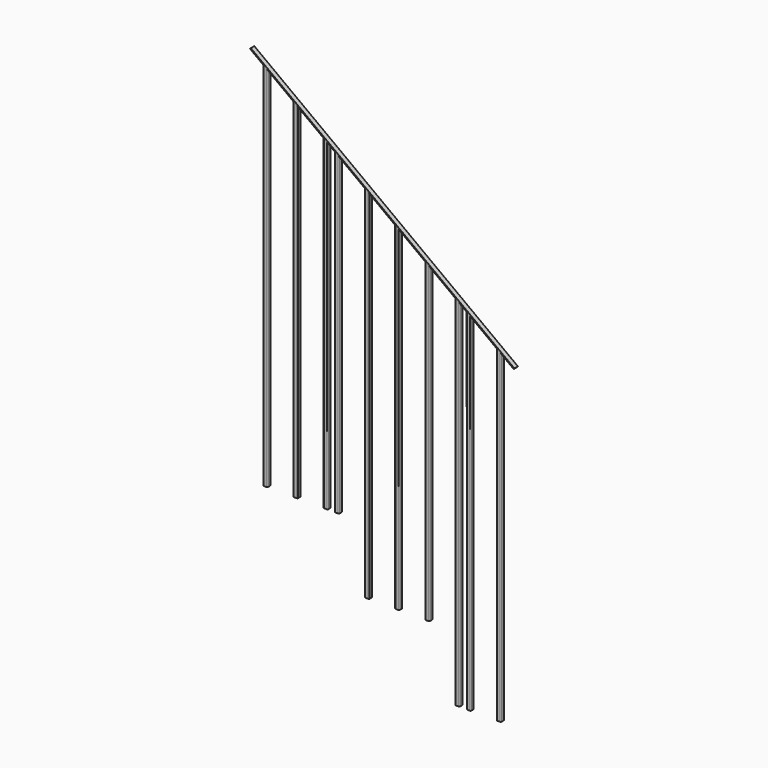
from build123d import *

# Parameters (mm, degrees)
F1_DEPTH = 1676.4
F3_DEPTH = 12.7
F5_DEPTH = 6.35


with BuildPart() as f1:
    # F0 (on Top) → F1 (new body)
    with BuildSketch(Plane.XY):
        with BuildLine():
            ThreePointArc((25.4, -3.81), (26.143949, -5.606051), (27.94, -6.35))
            Line((27.94, -6.35), (35.56, -6.35))
            ThreePointArc((35.56, -6.35), (37.356051, -5.606051), (38.1, -3.81))
            Line((38.1, -3.81), (38.1, 3.81))
            ThreePointArc((38.1, 3.81), (37.356051, 5.606051), (35.56, 6.35))
            Line((35.56, 6.35), (27.94, 6.35))
            ThreePointArc((27.94, 6.35), (26.143949, 5.606051), (25.4, 3.81))
            Line((25.4, 3.81), (25.4, -3.81))
        make_face()
        with BuildLine():
            ThreePointArc((26.9875, 3.81), (27.266481, 4.483519), (27.94, 4.7625))
            Line((27.94, 4.7625), (35.56, 4.7625))
            ThreePointArc((35.56, 4.7625), (36.233519, 4.483519), (36.5125, 3.81))
            Line((36.5125, 3.81), (36.5125, -3.81))
            ThreePointArc((36.5125, -3.81), (36.233519, -4.483519), (35.56, -4.7625))
            Line((35.56, -4.7625), (27.94, -4.7625))
            ThreePointArc((27.94, -4.7625), (27.266481, -4.483519), (26.9875, -3.81))
            Line((26.9875, -3.81), (26.9875, 3.81))
        make_face(mode=Mode.SUBTRACT)
        with BuildLine():
            ThreePointArc((122.6566, -6.35), (124.452651, -5.606051), (125.1966, -3.81))
            Line((125.1966, -3.81), (125.1966, 3.81))
            ThreePointArc((125.1966, 3.81), (124.452651, 5.606051), (122.6566, 6.35))
            Line((122.6566, 6.35), (115.0366, 6.35))
            ThreePointArc((115.0366, 6.35), (113.240549, 5.606051), (112.4966, 3.81))
            Line((112.4966, 3.81), (112.4966, -3.81))
            ThreePointArc((112.4966, -3.81), (113.240549, -5.606051), (115.0366, -6.35))
            Line((115.0366, -6.35), (122.6566, -6.35))
        make_face()
        with BuildLine():
            ThreePointArc((115.0366, -4.7625), (114.363081, -4.483519), (114.0841, -3.81))
            Line((114.0841, -3.81), (114.0841, 3.81))
            ThreePointArc((114.0841, 3.81), (114.363081, 4.483519), (115.0366, 4.7625))
            Line((115.0366, 4.7625), (122.6566, 4.7625))
            ThreePointArc((122.6566, 4.7625), (123.330119, 4.483519), (123.6091, 3.81))
            Line((123.6091, 3.81), (123.6091, -3.81))
            ThreePointArc((123.6091, -3.81), (123.330119, -4.483519), (122.6566, -4.7625))
            Line((122.6566, -4.7625), (115.0366, -4.7625))
        make_face(mode=Mode.SUBTRACT)
        with BuildLine():
            ThreePointArc((209.7532, -6.35), (211.549251, -5.606051), (212.2932, -3.81))
            Line((212.2932, -3.81), (212.2932, 3.81))
            ThreePointArc((212.2932, 3.81), (211.549251, 5.606051), (209.7532, 6.35))
            Line((209.7532, 6.35), (202.1332, 6.35))
            ThreePointArc((202.1332, 6.35), (200.337149, 5.606051), (199.5932, 3.81))
            Line((199.5932, 3.81), (199.5932, -3.81))
            ThreePointArc((199.5932, -3.81), (200.337149, -5.606051), (202.1332, -6.35))
            Line((202.1332, -6.35), (209.7532, -6.35))
        make_face()
        with BuildLine():
            ThreePointArc((202.1332, -4.7625), (201.459681, -4.483519), (201.1807, -3.81))
            Line((201.1807, -3.81), (201.1807, 3.81))
            ThreePointArc((201.1807, 3.81), (201.459681, 4.483519), (202.1332, 4.7625))
            Line((202.1332, 4.7625), (209.7532, 4.7625))
            ThreePointArc((209.7532, 4.7625), (210.426719, 4.483519), (210.7057, 3.81))
            Line((210.7057, 3.81), (210.7057, -3.81))
            ThreePointArc((210.7057, -3.81), (210.426719, -4.483519), (209.7532, -4.7625))
            Line((209.7532, -4.7625), (202.1332, -4.7625))
        make_face(mode=Mode.SUBTRACT)
        with BuildLine():
            ThreePointArc((296.8498, -6.35), (298.645851, -5.606051), (299.3898, -3.81))
            Line((299.3898, -3.81), (299.3898, 3.81))
            ThreePointArc((299.3898, 3.81), (298.645851, 5.606051), (296.8498, 6.35))
            Line((296.8498, 6.35), (289.2298, 6.35))
            ThreePointArc((289.2298, 6.35), (287.433749, 5.606051), (286.6898, 3.81))
            Line((286.6898, 3.81), (286.6898, -3.81))
            ThreePointArc((286.6898, -3.81), (287.433749, -5.606051), (289.2298, -6.35))
            Line((289.2298, -6.35), (296.8498, -6.35))
        make_face()
        with BuildLine():
            ThreePointArc((289.2298, -4.7625), (288.556281, -4.483519), (288.2773, -3.81))
            Line((288.2773, -3.81), (288.2773, 3.81))
            ThreePointArc((288.2773, 3.81), (288.556281, 4.483519), (289.2298, 4.7625))
            Line((289.2298, 4.7625), (296.8498, 4.7625))
            ThreePointArc((296.8498, 4.7625), (297.523319, 4.483519), (297.8023, 3.81))
            Line((297.8023, 3.81), (297.8023, -3.81))
            ThreePointArc((297.8023, -3.81), (297.523319, -4.483519), (296.8498, -4.7625))
            Line((296.8498, -4.7625), (289.2298, -4.7625))
        make_face(mode=Mode.SUBTRACT)
        with BuildLine():
            Line((319.3542, 3.81), (319.3542, -3.81))
            ThreePointArc((319.3542, -3.81), (320.098149, -5.606051), (321.8942, -6.35))
            Line((321.8942, -6.35), (329.5142, -6.35))
            ThreePointArc((329.5142, -6.35), (331.310251, -5.606051), (332.0542, -3.81))
            Line((332.0542, -3.81), (332.0542, 3.81))
            ThreePointArc((332.0542, 3.81), (331.310251, 5.606051), (329.5142, 6.35))
            Line((329.5142, 6.35), (321.8942, 6.35))
            ThreePointArc((321.8942, 6.35), (320.098149, 5.606051), (319.3542, 3.81))
        make_face()
        with BuildLine():
            ThreePointArc((321.8942, -4.7625), (321.220681, -4.483519), (320.9417, -3.81))
            Line((320.9417, -3.81), (320.9417, 3.81))
            ThreePointArc((320.9417, 3.81), (321.220681, 4.483519), (321.8942, 4.7625))
            Line((321.8942, 4.7625), (329.5142, 4.7625))
            ThreePointArc((329.5142, 4.7625), (330.187719, 4.483519), (330.4667, 3.81))
            Line((330.4667, 3.81), (330.4667, -3.81))
            ThreePointArc((330.4667, -3.81), (330.187719, -4.483519), (329.5142, -4.7625))
            Line((329.5142, -4.7625), (321.8942, -4.7625))
        make_face(mode=Mode.SUBTRACT)
        with BuildLine():
            ThreePointArc((406.4, -3.81), (407.143949, -5.606051), (408.94, -6.35))
            Line((408.94, -6.35), (416.56, -6.35))
            ThreePointArc((416.56, -6.35), (418.356051, -5.606051), (419.1, -3.81))
            Line((419.1, -3.81), (419.1, 3.81))
            ThreePointArc((419.1, 3.81), (418.356051, 5.606051), (416.56, 6.35))
            Line((416.56, 6.35), (408.94, 6.35))
            ThreePointArc((408.94, 6.35), (407.143949, 5.606051), (406.4, 3.81))
            Line((406.4, 3.81), (406.4, -3.81))
        make_face()
        with BuildLine():
            ThreePointArc((408.94, -4.7625), (408.266481, -4.483519), (407.9875, -3.81))
            Line((407.9875, -3.81), (407.9875, 3.81))
            ThreePointArc((407.9875, 3.81), (408.266481, 4.483519), (408.94, 4.7625))
            Line((408.94, 4.7625), (416.56, 4.7625))
            ThreePointArc((416.56, 4.7625), (417.233519, 4.483519), (417.5125, 3.81))
            Line((417.5125, 3.81), (417.5125, -3.81))
            ThreePointArc((417.5125, -3.81), (417.233519, -4.483519), (416.56, -4.7625))
            Line((416.56, -4.7625), (408.94, -4.7625))
        make_face(mode=Mode.SUBTRACT)
        with BuildLine():
            Line((677.8498, 6.35), (670.2298, 6.35))
            ThreePointArc((670.2298, 6.35), (668.433749, 5.606051), (667.6898, 3.81))
            Line((667.6898, 3.81), (667.6898, -3.81))
            ThreePointArc((667.6898, -3.81), (668.433749, -5.606051), (670.2298, -6.35))
            Line((670.2298, -6.35), (677.8498, -6.35))
            ThreePointArc((677.8498, -6.35), (679.645851, -5.606051), (680.3898, -3.81))
            Line((680.3898, -3.81), (680.3898, 3.81))
            ThreePointArc((680.3898, 3.81), (679.645851, 5.606051), (677.8498, 6.35))
        make_face()
        with BuildLine():
            ThreePointArc((670.2298, -4.7625), (669.556281, -4.483519), (669.2773, -3.81))
            Line((669.2773, -3.81), (669.2773, 3.81))
            ThreePointArc((669.2773, 3.81), (669.556281, 4.483519), (670.2298, 4.7625))
            Line((670.2298, 4.7625), (677.8498, 4.7625))
            ThreePointArc((677.8498, 4.7625), (678.523319, 4.483519), (678.8023, 3.81))
            Line((678.8023, 3.81), (678.8023, -3.81))
            ThreePointArc((678.8023, -3.81), (678.523319, -4.483519), (677.8498, -4.7625))
            Line((677.8498, -4.7625), (670.2298, -4.7625))
        make_face(mode=Mode.SUBTRACT)
        with BuildLine():
            ThreePointArc((493.4966, -3.81), (494.240549, -5.606051), (496.0366, -6.35))
            Line((496.0366, -6.35), (503.6566, -6.35))
            ThreePointArc((503.6566, -6.35), (505.452651, -5.606051), (506.1966, -3.81))
            Line((506.1966, -3.81), (506.1966, 3.81))
            ThreePointArc((506.1966, 3.81), (505.452651, 5.606051), (503.6566, 6.35))
            Line((503.6566, 6.35), (496.0366, 6.35))
            ThreePointArc((496.0366, 6.35), (494.240549, 5.606051), (493.4966, 3.81))
            Line((493.4966, 3.81), (493.4966, -3.81))
        make_face()
        with BuildLine():
            ThreePointArc((495.0841, 3.81), (495.363081, 4.483519), (496.0366, 4.7625))
            Line((496.0366, 4.7625), (503.6566, 4.7625))
            ThreePointArc((503.6566, 4.7625), (504.330119, 4.483519), (504.6091, 3.81))
            Line((504.6091, 3.81), (504.6091, -3.81))
            ThreePointArc((504.6091, -3.81), (504.330119, -4.483519), (503.6566, -4.7625))
            Line((503.6566, -4.7625), (496.0366, -4.7625))
            ThreePointArc((496.0366, -4.7625), (495.363081, -4.483519), (495.0841, -3.81))
            Line((495.0841, -3.81), (495.0841, 3.81))
        make_face(mode=Mode.SUBTRACT)
        with BuildLine():
            Line((580.5932, 3.81), (580.5932, -3.81))
            ThreePointArc((580.5932, -3.81), (581.337149, -5.606051), (583.1332, -6.35))
            Line((583.1332, -6.35), (590.7532, -6.35))
            ThreePointArc((590.7532, -6.35), (592.549251, -5.606051), (593.2932, -3.81))
            Line((593.2932, -3.81), (593.2932, 3.81))
            ThreePointArc((593.2932, 3.81), (592.549251, 5.606051), (590.7532, 6.35))
            Line((590.7532, 6.35), (583.1332, 6.35))
            ThreePointArc((583.1332, 6.35), (581.337149, 5.606051), (580.5932, 3.81))
        make_face()
        with BuildLine():
            ThreePointArc((591.7057, -3.81), (591.426719, -4.483519), (590.7532, -4.7625))
            Line((590.7532, -4.7625), (583.1332, -4.7625))
            ThreePointArc((583.1332, -4.7625), (582.459681, -4.483519), (582.1807, -3.81))
            Line((582.1807, -3.81), (582.1807, 3.81))
            ThreePointArc((582.1807, 3.81), (582.459681, 4.483519), (583.1332, 4.7625))
            Line((583.1332, 4.7625), (590.7532, 4.7625))
            ThreePointArc((590.7532, 4.7625), (591.426719, 4.483519), (591.7057, 3.81))
            Line((591.7057, 3.81), (591.7057, -3.81))
        make_face(mode=Mode.SUBTRACT)
        with BuildLine():
            Line((713.0542, -3.81), (713.0542, 3.81))
            ThreePointArc((713.0542, 3.81), (712.310251, 5.606051), (710.5142, 6.35))
            Line((710.5142, 6.35), (702.8942, 6.35))
            ThreePointArc((702.8942, 6.35), (701.098149, 5.606051), (700.3542, 3.81))
            Line((700.3542, 3.81), (700.3542, -3.81))
            ThreePointArc((700.3542, -3.81), (701.098149, -5.606051), (702.8942, -6.35))
            Line((702.8942, -6.35), (710.5142, -6.35))
            ThreePointArc((710.5142, -6.35), (712.310251, -5.606051), (713.0542, -3.81))
        make_face()
        with BuildLine():
            ThreePointArc((702.8942, -4.7625), (702.220681, -4.483519), (701.9417, -3.81))
            Line((701.9417, -3.81), (701.9417, 3.81))
            ThreePointArc((701.9417, 3.81), (702.220681, 4.483519), (702.8942, 4.7625))
            Line((702.8942, 4.7625), (710.5142, 4.7625))
            ThreePointArc((710.5142, 4.7625), (711.187719, 4.483519), (711.4667, 3.81))
            Line((711.4667, 3.81), (711.4667, -3.81))
            ThreePointArc((711.4667, -3.81), (711.187719, -4.483519), (710.5142, -4.7625))
            Line((710.5142, -4.7625), (702.8942, -4.7625))
        make_face(mode=Mode.SUBTRACT)
        with BuildLine():
            ThreePointArc((797.6108, -6.35), (799.406851, -5.606051), (800.1508, -3.81))
            Line((800.1508, -3.81), (800.1508, 3.81))
            ThreePointArc((800.1508, 3.81), (799.406851, 5.606051), (797.6108, 6.35))
            Line((797.6108, 6.35), (789.9908, 6.35))
            ThreePointArc((789.9908, 6.35), (788.194749, 5.606051), (787.4508, 3.81))
            Line((787.4508, 3.81), (787.4508, -3.81))
            ThreePointArc((787.4508, -3.81), (788.194749, -5.606051), (789.9908, -6.35))
            Line((789.9908, -6.35), (797.6108, -6.35))
        make_face()
        with BuildLine():
            Line((798.5633, 3.81), (798.5633, -3.81))
            ThreePointArc((798.5633, -3.81), (798.284319, -4.483519), (797.6108, -4.7625))
            Line((797.6108, -4.7625), (789.9908, -4.7625))
            ThreePointArc((789.9908, -4.7625), (789.317281, -4.483519), (789.0383, -3.81))
            Line((789.0383, -3.81), (789.0383, 3.81))
            ThreePointArc((789.0383, 3.81), (789.317281, 4.483519), (789.9908, 4.7625))
            Line((789.9908, 4.7625), (797.6108, 4.7625))
            ThreePointArc((797.6108, 4.7625), (798.284319, 4.483519), (798.5633, 3.81))
        make_face(mode=Mode.SUBTRACT)
    extrude(amount=F1_DEPTH)

    # F2 (on Front) → F3 (cut, symmetric)
    with BuildSketch(Plane.XZ):
        Polygon((841.3242, 908.05), (841.3242, 0), (605.097058, 0), (605.097058, 189.1), (351.097058, 189.1), (351.097058, 378.2), (97.097058, 378.2), (97.097058, 1778), (-146.459617, 1778), (-146.459617, -254), (1316.214144, -254), (1316.214144, 1778), (101.517112, 1778), (101.517112, 1458.82266), align=None)
    extrude(amount=F3_DEPTH, both=True, mode=Mode.SUBTRACT)


with BuildPart() as f5:
    # F4 (on Front) → F5 (new body, symmetric)
    with BuildSketch(Plane.XZ):
        Polygon((77.098278, 1480.960292), (75.202284, 1478.413561), (837.445116, 910.937906), (839.341109, 913.484636), align=None)
    extrude(amount=F5_DEPTH, both=True)


solid = Compound([f1.part, f5.part])
